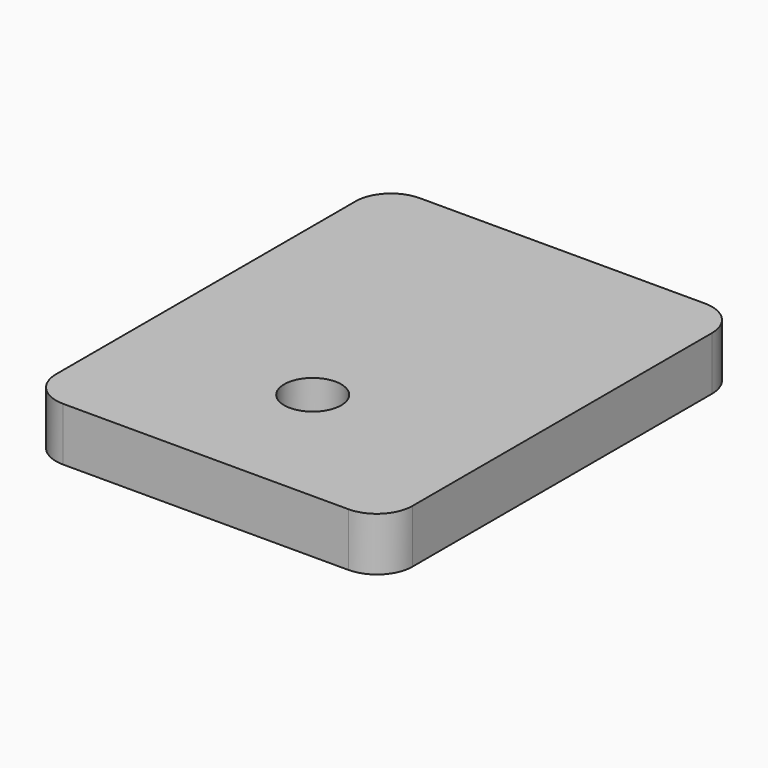
from build123d import *

# Parameters (mm, degrees)
F0_W     = 20
F0_H     = 25
F0_R     = 1.6
F1_DEPTH = 3
F2_R     = 2


with BuildPart() as f1:
    # F0 (on Top) → F1 (new body)
    with BuildSketch(Plane.XY):
        with Locations((0, 5)):
            Rectangle(F0_W, F0_H)
        Circle(F0_R, mode=Mode.SUBTRACT)
    extrude(amount=F1_DEPTH)

    # F2
    f2_edges = [f1.edges().sort_by_distance(p)[0] for p in [
        (-10, -7.5, 1.5),
        (10, -7.5, 1.5),
        (-10, 17.5, 1.5),
        (10, 17.5, 1.5),
    ]]
    fillet(f2_edges, radius=F2_R)


solid = f1.part
